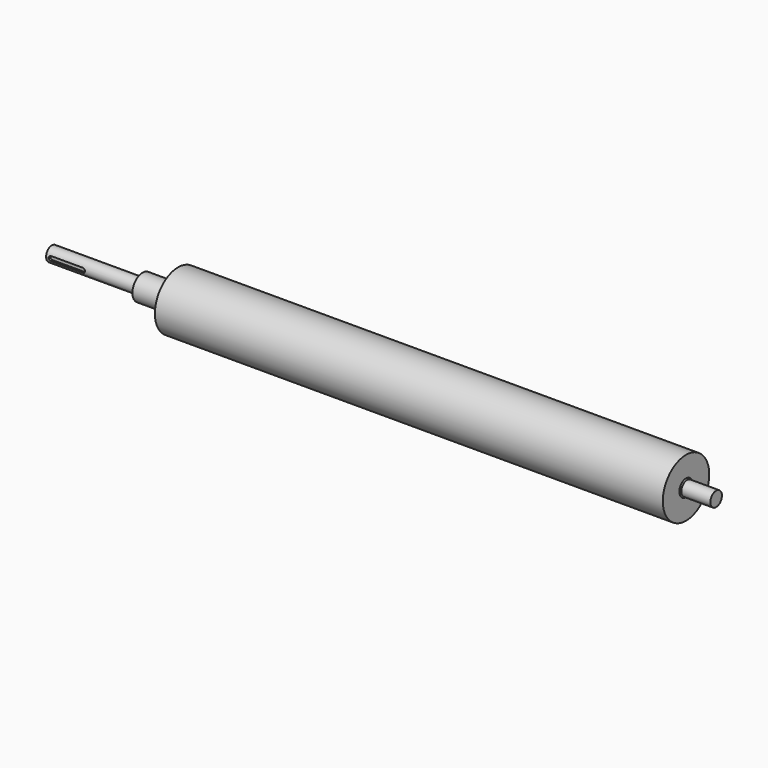
from build123d import *

# Parameters (mm, degrees)
F4_DEPTH = 6


with BuildPart() as f1:
    # F0 (on Front) → F1 (revolve)
    with BuildSketch(Plane.XZ):
        Polygon((-1048, 0), (0, 0), (783, 0), (783, 20), (703, 20), (700, 20), (700, 23), (700, 80), (-700, 80), (-700, 50), (-700, 35), (-710, 35), (-798, 35), (-798, 23), (-798, 20), (-801, 20), (-1048, 20), align=None)
        Polygon((700, 20), (703, 20), (700, 23), align=None)
        Polygon((-798, 23), (-801, 20), (-798, 20), align=None)
        Polygon((-700, 50), (-710, 35), (-700, 35), align=None)
    revolve(axis=Axis((391.5, 0, 0), (1, 0, 0)))

    # F3 (on offset) → F4 (cut)
    with BuildSketch(Plane.XZ.offset(20)):
        with BuildLine():
            ThreePointArc((-941, 0), (-942.757359, 4.242641), (-947, 6))
            Line((-947, 6), (-1035, 6))
            ThreePointArc((-1035, 6), (-1039.242641, 4.242641), (-1041, 0))
            ThreePointArc((-1041, 0), (-1039.242641, -4.242641), (-1035, -6))
            Line((-1035, -6), (-947, -6))
            ThreePointArc((-947, -6), (-942.757359, -4.242641), (-941, 0))
        make_face()
    extrude(amount=-F4_DEPTH, mode=Mode.SUBTRACT)


solid = f1.part
